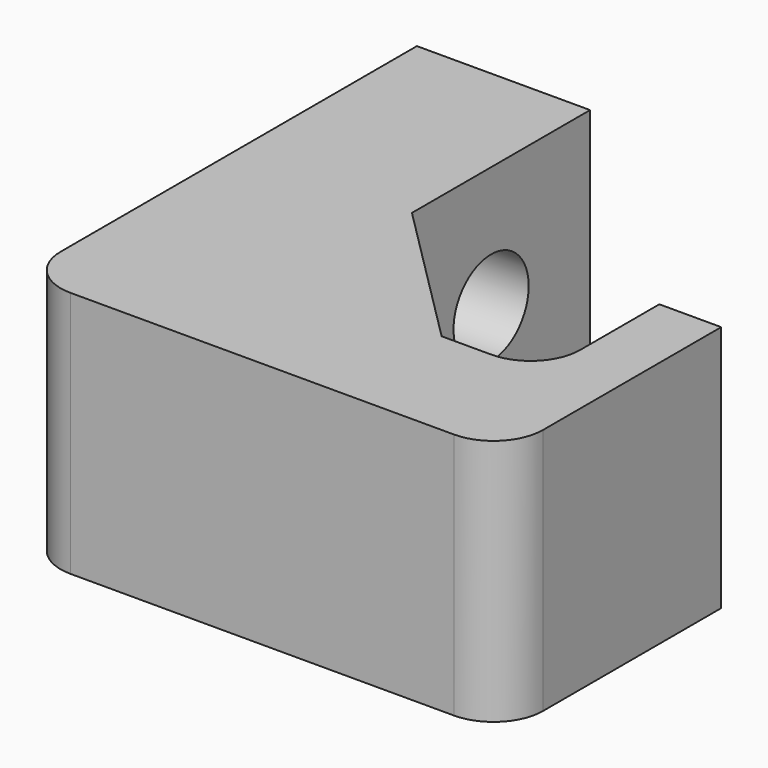
from build123d import *

# Parameters (mm, degrees)
F0_W     = 8.89
F0_H     = 19.05
F0_W_2   = 3.175
F0_H_2   = 7.62
F1_DEPTH = 12.7
F2_R     = 2.54
F3_R     = 2.413
F4_DEPTH = 25.4
F5_SIZE  = 7.62


with BuildPart() as f1:
    # F0 (on Top) → F1 (new body)
    with BuildSketch(Plane.XY):
        with Locations((-10.492269, 9.525)):
            Rectangle(F0_W, F0_H)
        Polygon((-6.047269, 0), (-14.937269, 0), (-14.937269, -6.35), (9.827731, -6.35), (9.827731, 0), (6.652731, 0), align=None)
        with Locations((8.240231, 3.81)):
            Rectangle(F0_W_2, F0_H_2)
    extrude(amount=F1_DEPTH)

    # F2
    f2_edges = [f1.edges().sort_by_distance(p)[0] for p in [
        (6.652731, 0, 6.35),
        (9.827731, -6.35, 6.35),
        (-14.937269, -6.35, 6.35),
    ]]
    fillet(f2_edges, radius=F2_R)

    # F3 (on face) → F4 (cut)
    with BuildSketch(Plane.YZ.offset(-6.047269)):
        with Locations((12.7, 6.35)):
            Circle(F3_R)
    extrude(amount=-F4_DEPTH, mode=Mode.SUBTRACT)

    # F5
    f5_edges = [f1.edges().sort_by_distance(p)[0] for p in [
        (-6.047269, 0, 6.35),
    ]]
    chamfer(f5_edges, length=F5_SIZE)


solid = f1.part
